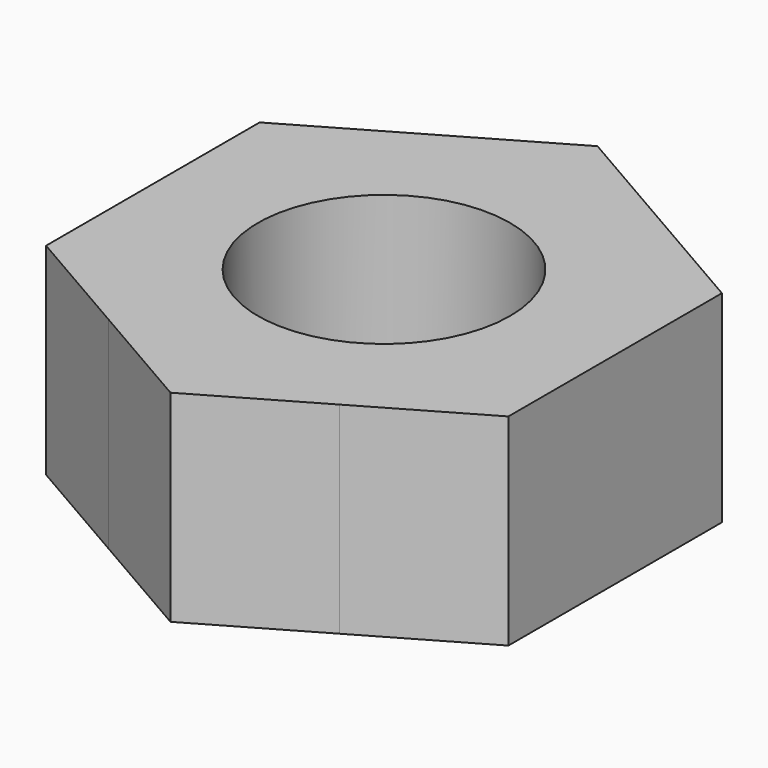
from build123d import *

# Parameters (mm, degrees)
F0_R     = 1.5
F1_DEPTH = 2.4


with BuildPart() as f1:
    # F0 (on Top) → F1 (new body)
    with BuildSketch(Plane.XY):
        with BuildLine():
            ThreePointArc((1.375000029, -2.3815698437), (2.3815698688, -1.3749999855), (2.75, 0))
            ThreePointArc((2.75, 0), (2.3815698469, 1.3750000233), (1.3749999534, 2.3815698873))
            ThreePointArc((1.3749999534, 2.3815698873), (-7.33e-08, 2.75), (-1.3750000803, 2.381569814))
            ThreePointArc((-1.3750000803, 2.381569814), (-2.3815698836, 1.3749999598), (-2.75, 0))
            ThreePointArc((-2.75, 0), (-2.3815698539, -1.3750000112), (-1.3749999776, -2.3815698733))
            ThreePointArc((-1.3749999776, -2.3815698733), (2.97e-08, -2.75), (1.375000029, -2.3815698437))
        make_face()
        Circle(F0_R, mode=Mode.SUBTRACT)
        with BuildLine():
            Line((2.75, -1.5877132403), (2.75, 0))
            ThreePointArc((2.75, 0), (2.3815698688, -1.3749999855), (1.375000029, -2.3815698437))
            Line((1.375000029, -2.3815698437), (2.75, -1.5877132403))
        make_face()
        with BuildLine():
            ThreePointArc((1.3749999534, 2.3815698873), (2.3815698469, 1.3750000233), (2.75, 0))
            Line((2.75, 0), (2.75, 1.5877132403))
            Line((2.75, 1.5877132403), (1.3749999534, 2.3815698873))
        make_face()
        with BuildLine():
            ThreePointArc((-1.3750000803, 2.381569814), (-7.33e-08, 2.75), (1.3749999534, 2.3815698873))
            Line((1.3749999534, 2.3815698873), (0, 3.1754264805))
            Line((0, 3.1754264805), (-1.3750000803, 2.381569814))
        make_face()
        with BuildLine():
            Line((0, -3.1754264805), (1.375000029, -2.3815698437))
            ThreePointArc((1.375000029, -2.3815698437), (2.97e-08, -2.75), (-1.3749999776, -2.3815698733))
            Line((-1.3749999776, -2.3815698733), (0, -3.1754264805))
        make_face()
        with BuildLine():
            ThreePointArc((-2.75, 0), (-2.3815698836, 1.3749999598), (-1.3750000803, 2.381569814))
            Line((-1.3750000803, 2.381569814), (-2.75, 1.5877132403))
            Line((-2.75, 1.5877132403), (-2.75, 0))
        make_face()
        with BuildLine():
            Line((-2.75, -1.5877132403), (-1.3749999776, -2.3815698733))
            ThreePointArc((-1.3749999776, -2.3815698733), (-2.3815698539, -1.3750000112), (-2.75, 0))
            Line((-2.75, 0), (-2.75, -1.5877132403))
        make_face()
    extrude(amount=F1_DEPTH)


solid = f1.part
